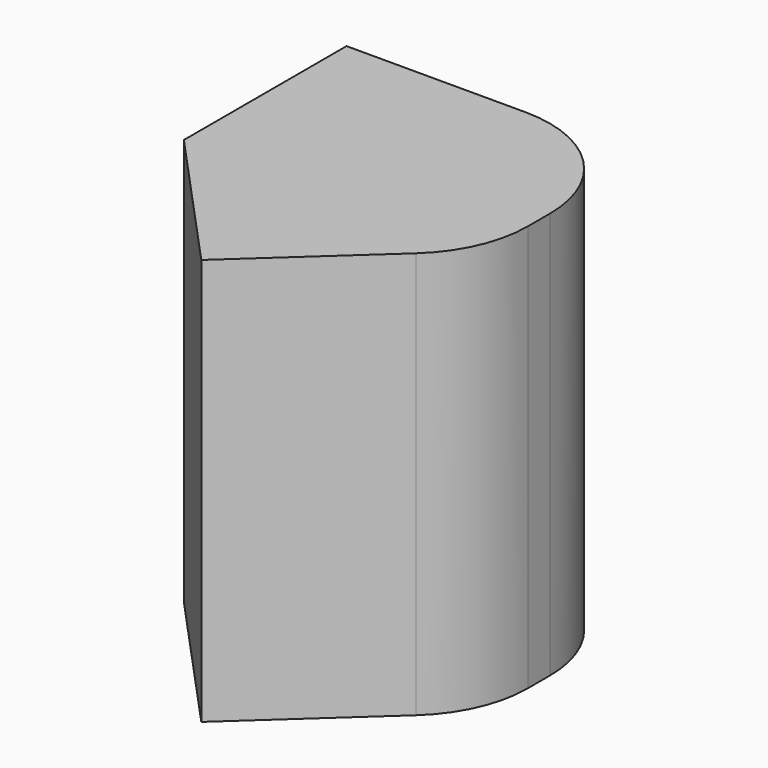
from build123d import *

# Parameters (mm, degrees)
F0_W     = 7.401
F0_H     = 5
F1_DEPTH = 10
F2_R     = 3


with BuildPart() as f1:
    # F0 (on Top) → F1 (new body)
    with BuildSketch(Plane.XY):
        with Locations((3.7005, 2.5)):
            Rectangle(F0_W, F0_H)
        Polygon((7.401, 0), (0, 0), (3.37798, -3.686418), align=None)
    extrude(amount=F1_DEPTH)

    # F2
    f2_edges = [f1.edges().sort_by_distance(p)[0] for p in [
        (7.401, 5, 5),
        (7.401, 0, 5),
    ]]
    fillet(f2_edges, radius=F2_R)


solid = f1.part
